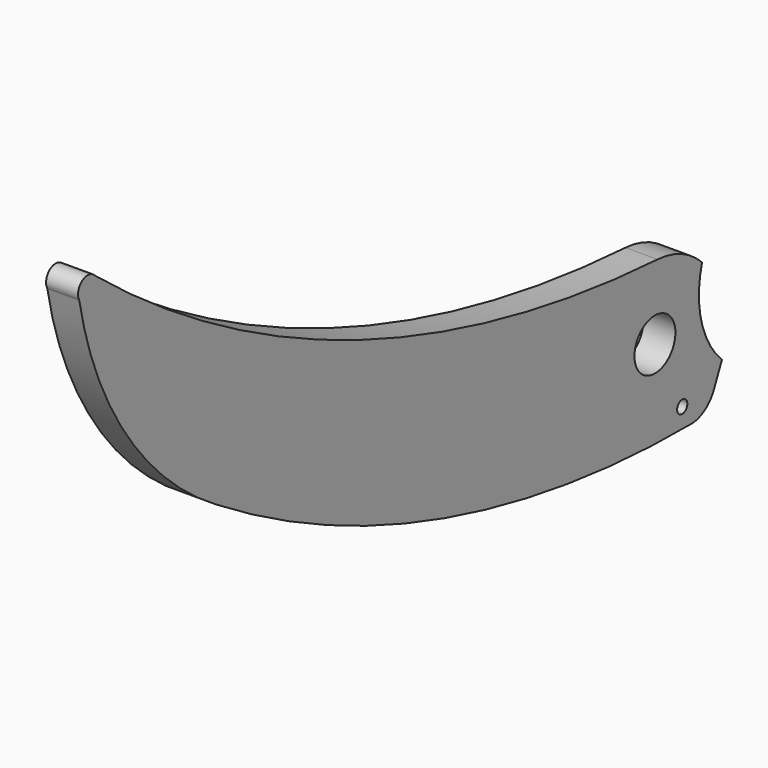
from build123d import *

# Parameters (mm, degrees)
F0_R     = 1
F0_R_2   = 4
F1_DEPTH = 5


with BuildPart() as f1:
    # F0 (on Right) → F1 (new body)
    with BuildSketch(Plane.YZ):
        with BuildLine():
            Line((49.395063, -27.17603), (50.9623, -23.710626))
            ThreePointArc((50.9623, -23.710626), (46.940234, -16.751526), (47.088329, -8.715099))
            ThreePointArc((47.088329, -8.715099), (43.088698, -5.929526), (38.355623, -4.765712))
            ThreePointArc((38.355623, -4.765712), (-19.982622, 7.86082), (-71.648734, 37.750502))
            ThreePointArc((-71.648734, 37.750502), (-74.137603, 37.991145), (-74.665658, 35.547063))
            ThreePointArc((-74.665658, 35.547063), (-65.382194, 13.188854), (-47.83069, -3.484985))
            ThreePointArc((-47.83069, -3.484985), (-3.207902, -23.487737), (45.244042, -30.099269))
            ThreePointArc((45.244042, -30.099269), (47.718186, -29.203713), (49.395063, -27.17603))
        make_face()
        with Locations((43.202368, -27.010726)):
            Circle(F0_R, mode=Mode.SUBTRACT)
        with Locations((37.868618, -16.261256)):
            Circle(F0_R_2, mode=Mode.SUBTRACT)
    extrude(amount=F1_DEPTH)


solid = f1.part
